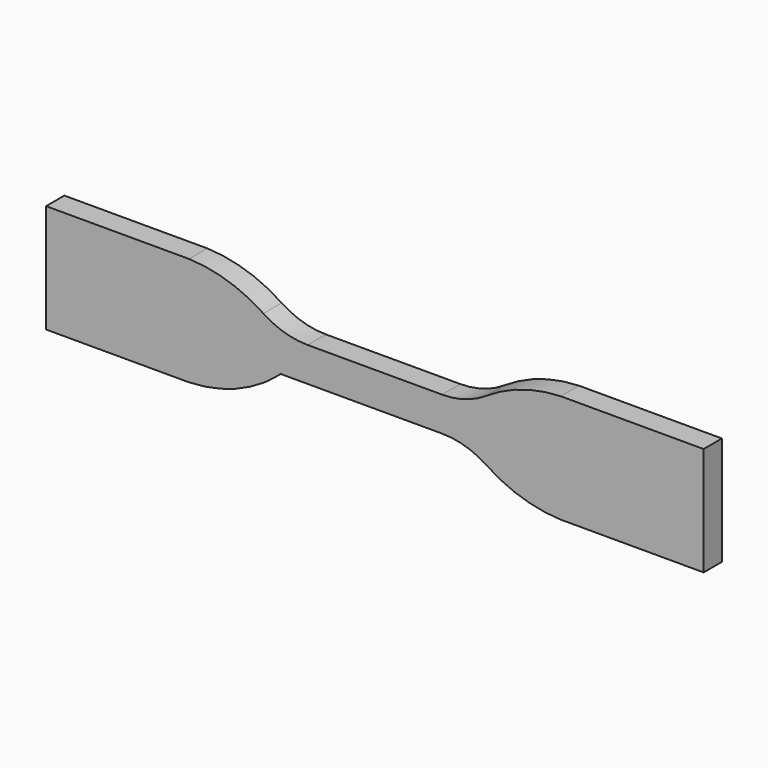
from build123d import *

# Parameters (mm, degrees)
F1_DEPTH = 2


with BuildPart() as f1:
    # F0 (on Front) → F1 (new body, symmetric)
    with BuildSketch(Plane.XZ):
        with BuildLine():
            Line((11.751494, 3), (0, 3))
            Line((0, 3), (-11.751494, 3))
            ThreePointArc((-11.751494, 3), (-15.797231, 3.597313), (-19.497744, 5.338285))
            ThreePointArc((-19.497744, 5.338285), (-25.709291, 8.323868), (-32.5, 9.5))
            Line((-32.5, 9.5), (-57.5, 9.5))
            Line((-57.5, 9.5), (-57.5, 0))
            Line((-57.5, 0), (-57.5, -9.5))
            Line((-57.5, -9.5), (-32.5, -9.5))
            ThreePointArc((-32.5, -9.5), (-25.709291, -8.323868), (-19.497744, -5.338285))
            ThreePointArc((-19.497744, -5.338285), (-17.954359, -4.22621), (-16.5, -3))
            Line((-16.5, -3), (-11.751494, -3))
            Line((-11.751494, -3), (0, -3))
            Line((0, -3), (11.751494, -3))
            ThreePointArc((11.751494, -3), (15.797231, -3.597313), (19.497744, -5.338285))
            ThreePointArc((19.497744, -5.338285), (25.709291, -8.323868), (32.5, -9.5))
            Line((32.5, -9.5), (57.5, -9.5))
            Line((57.5, -9.5), (57.5, 0))
            Line((57.5, 0), (57.5, 9.5))
            Line((57.5, 9.5), (32.5, 9.5))
            ThreePointArc((32.5, 9.5), (25.709291, 8.323868), (19.497744, 5.338285))
            ThreePointArc((19.497744, 5.338285), (15.797231, 3.597313), (11.751494, 3))
        make_face()
    extrude(amount=F1_DEPTH, both=True)


solid = f1.part
